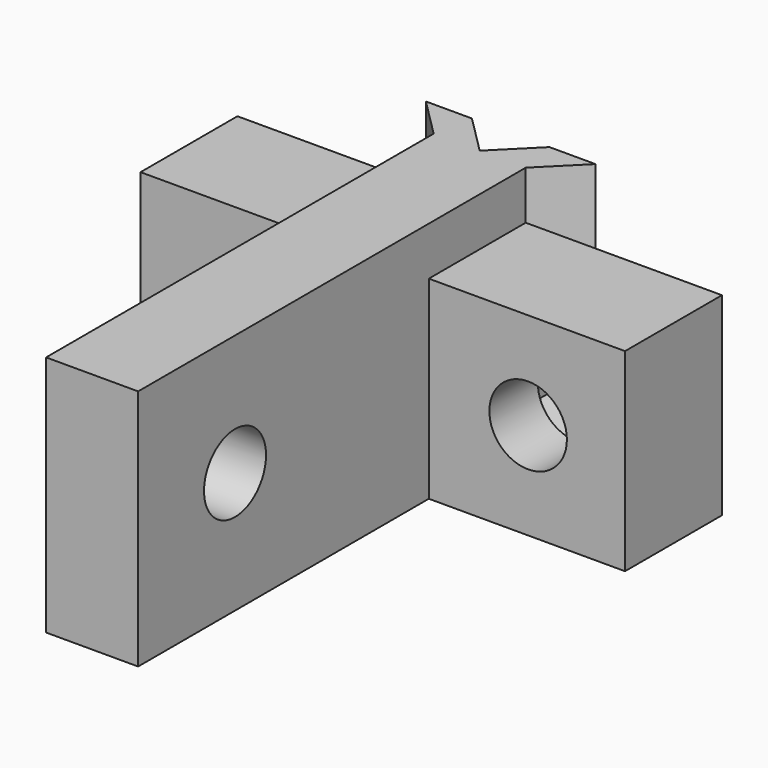
from build123d import *

# Parameters (mm, degrees)
PAD_DEPTH            = 10
SKETCH_W             = 20
SKETCH_H             = 8
PAD001_DEPTH         = 5
POCKET_DEPTH         = 2.5
SKETCH003_R          = 1.6
POCKET001_DEPTH      = 20.001
SKETCH004_R          = 1.6
POCKET002_DEPTH      = 10.001
POCKET002_DEPTH_BACK = -10.001


with BuildPart() as part:
    # Sketch001 → Pad (new body)
    with BuildSketch(Plane.XY):
        Polygon((-1.9, 0), (-3.5, 1.6), (-1.6, 1.6), (0, 0), (1.6, 1.6), (3.5, 1.6), (1.9, 0), (1.9, -20), (-1.9, -20), align=None)
    extrude(amount=PAD_DEPTH)

    # Sketch → Pad001 (join)
    with BuildSketch(Plane.XZ):
        with Locations((0, 4)):
            Rectangle(SKETCH_W, SKETCH_H)
    extrude(amount=PAD001_DEPTH)

    # Sketch002 → Pocket (cut)
    with BuildSketch(Plane.XZ):
        Polygon((-3.125, 2.340118), (-3.125, 5.659882), (-6, 7.319764), (-8.875, 5.659882), (-8.875, 2.340118), (-6, 0.680236), align=None)
        Polygon((3.125, 2.340118), (6, 0.680236), (8.875, 2.340118), (8.875, 5.659882), (6, 7.319764), (3.125, 5.659882), align=None)
    extrude(amount=POCKET_DEPTH, mode=Mode.SUBTRACT)

    # Sketch003 → Pocket001 (cut, through all)
    with BuildSketch(Plane.XZ):
        with Locations((-6, 4)):
            Circle(SKETCH003_R)
        with Locations((6, 4)):
            Circle(SKETCH003_R)
    extrude(amount=POCKET001_DEPTH, mode=Mode.SUBTRACT)

    # Sketch004 → Pocket002 (cut, two sides)
    with BuildSketch(Plane.YZ) as pocket002_sk:
        with Locations((-15, 5)):
            Circle(SKETCH004_R)
    extrude(amount=-POCKET002_DEPTH, mode=Mode.SUBTRACT)
    extrude(pocket002_sk.sketch, amount=-POCKET002_DEPTH_BACK, mode=Mode.SUBTRACT)


solid = part.part
